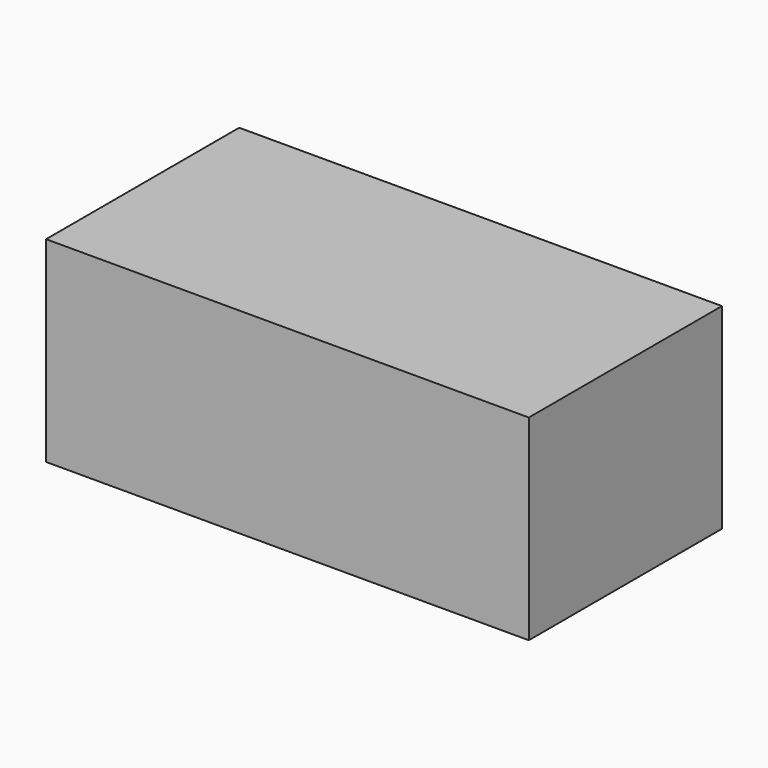
from build123d import *

# Parameters (mm, degrees)
SKETCH_W  = 3.2
SKETCH_H  = 1.6
PAD_DEPTH = 1.3


with BuildPart() as part:
    # Sketch → Pad (new body)
    with BuildSketch(Plane.XY):
        Rectangle(SKETCH_W, SKETCH_H)
    extrude(amount=PAD_DEPTH)


solid = part.part
